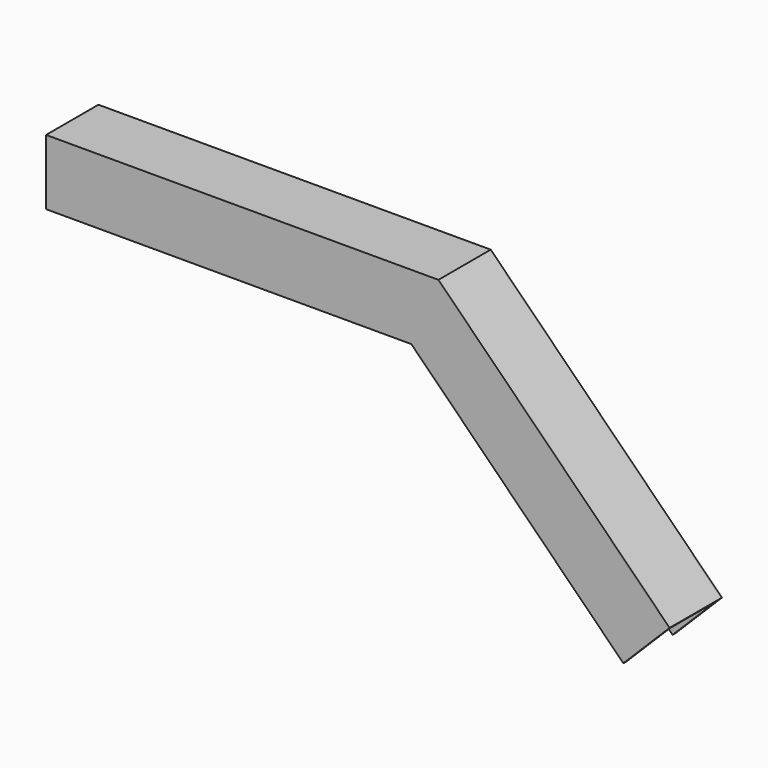
from build123d import *

# Parameters (mm, degrees)
F1_DEPTH = 50
F3_DEPTH = 3
F5_DEPTH = 3


with BuildPart() as f1:
    # F0 (on Front) → F1 (new body)
    with BuildSketch(Plane.XZ):
        Polygon((300, 0), (0, 0), (0, -3), (298.757359, -3), (474.655375, -178.898016), (476.776695, -176.776695), align=None)
    extrude(amount=F1_DEPTH)

    # F2 (on face) → F3 (join)
    with BuildSketch(Plane.XZ.offset(50)):
        Polygon((474.655375, -178.898016), (298.757359, -3), (0, -3), (0, -50), (279.289322, -50), (441.421356, -212.132034), align=None)
    extrude(amount=-F3_DEPTH)

    # F4 (on face) → F5 (join)
    with BuildSketch(Plane(origin=(0, 0, 0), x_dir=(-1, 0, 0), z_dir=(0, 1, 0))):
        Polygon((-298.757359, -3), (-474.655375, -178.898016), (-441.421356, -212.132034), (-279.289322, -50), (0, -50), (0, -3), align=None)
    extrude(amount=-F5_DEPTH)


solid = f1.part
